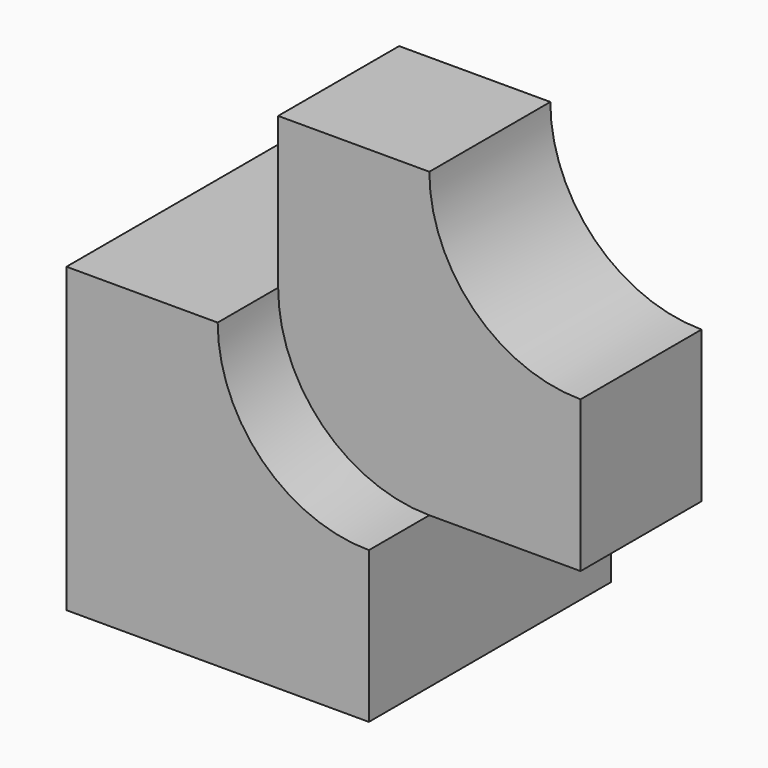
from build123d import *

# Parameters (mm, degrees)
F1_DEPTH = 63.5
F3_DEPTH = 31.75


with BuildPart() as f1:
    # F0 (on Front) → F1 (new body, symmetric)
    with BuildSketch(Plane.XZ):
        with BuildLine():
            ThreePointArc((63.5, 0), (18.598719, 18.598719), (0, 63.5))
            Line((0, 63.5), (-63.5, 63.5))
            Line((-63.5, 63.5), (-63.5, -63.5))
            Line((-63.5, -63.5), (63.5, -63.5))
            Line((63.5, -63.5), (63.5, 0))
        make_face()
    extrude(amount=F1_DEPTH, both=True)

    # F2 (on Front) → F3 (join, symmetric)
    with BuildSketch(Plane.XZ):
        with BuildLine():
            Line((0, 127), (0, 0))
            Line((0, 0), (127, 0))
            Line((127, 0), (127, 63.5))
            ThreePointArc((127, 63.5), (82.098719, 82.098719), (63.5, 127))
            Line((63.5, 127), (0, 127))
        make_face()
    extrude(amount=F3_DEPTH, both=True)


solid = f1.part
